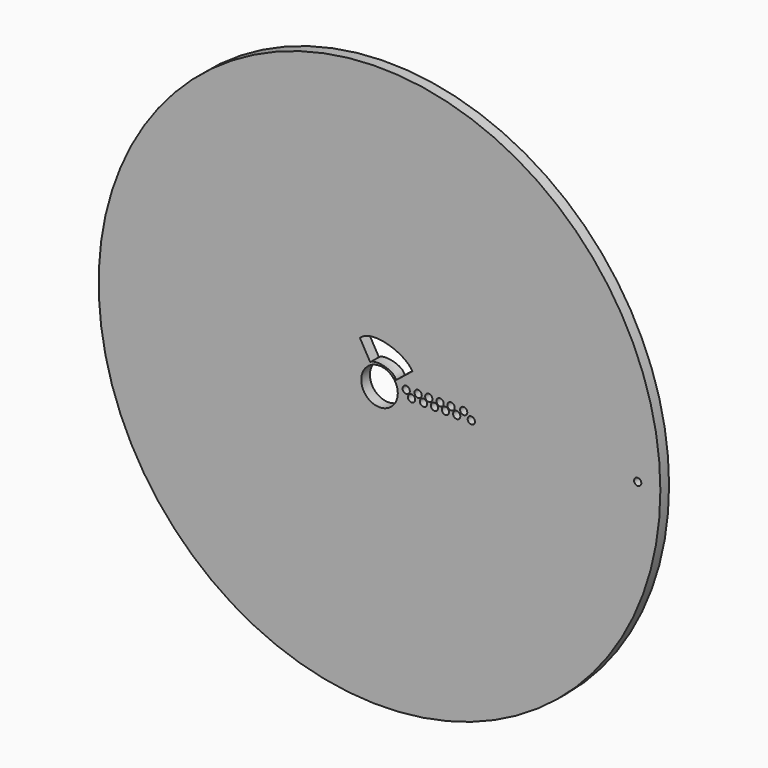
from build123d import *

# Parameters (mm, degrees)
F0_R     = 246.0625
F0_R_2   = 16.0248299709
F1_DEPTH = 4.7625
F2_DEPTH = 4.7752
F4_D     = 6.35
F6_DEPTH = 9.5387
F8_D     = 6.35


with BuildPart() as f1:
    # F0 (on Front) → F1 (new body)
    with BuildSketch(Plane.XZ):
        Circle(F0_R)
        Circle(F0_R_2, mode=Mode.SUBTRACT)
    extrude(amount=F1_DEPTH)

    # F2 (add): a face of the model
    f2_faces = [f1.faces().sort_by_distance(p)[0] for p in [
        (-239.1028015062, -4.7625, 0),
    ]]
    extrude(f2_faces, amount=F2_DEPTH)

    # F4 (through all)
    with Locations(Plane(origin=(0, 0, 0), x_dir=(1, 0, 0), z_dir=(0, 1, 0))):
        with Locations((23.3807638288, -5.0180926919), (28.036672622, 0), (33.8565558195, -5.3090867586), (38.5124646127, 0), (43.1683734059, -5.3090867586), (48.1152758002, 0), (57.7180869877, 0), (62.6649931073, -5.0180926919), (67.611888051, 0), (73.7227723002, -5.0180926919), (53.0621781945, -5.0180926919), (80.415636301, 0)):
            Hole(F4_D / 2)

    # F5 (on Front) → F6 (cut, through all)
    with BuildSketch(Plane.XZ):
        with BuildLine():
            add(Edge.make_bspline(
                [(14.4555894658, 9.5869684592), (12.7334762365, 16.9557761401), (-4.4353525154, 19.925462082), (-8.1386631355, 16.0679295659)],
                knots=[0, 0, 0, 0, 23.5053846486, 23.5053846486, 23.5053846486, 23.5053846486], degree=3))
            Line((14.4555894658, 9.5869684592), (28.8158967792, 21.0863542243))
            add(Edge.make_bspline(
                [(28.8158967792, 21.0863542243), (22.4603216629, 32.5071383268), (-6.1850600177, 42.7067335695), (-17.1682926589, 31.9189709392)],
                knots=[0, 0, 0, 0, 47.2428964307, 47.2428964307, 47.2428964307, 47.2428964307], degree=3))
            Line((-17.1682926589, 31.9189709392), (-8.1386631355, 16.0679295659))
        make_face()
    extrude(amount=F6_DEPTH, mode=Mode.SUBTRACT)

    # F8 (through all)
    with Locations(Plane(origin=(0, 0, 0), x_dir=(1, 0, 0), z_dir=(0, 1, 0))):
        with Locations((226.2086173164, 0)):
            Hole(F8_D / 2)


solid = f1.part
